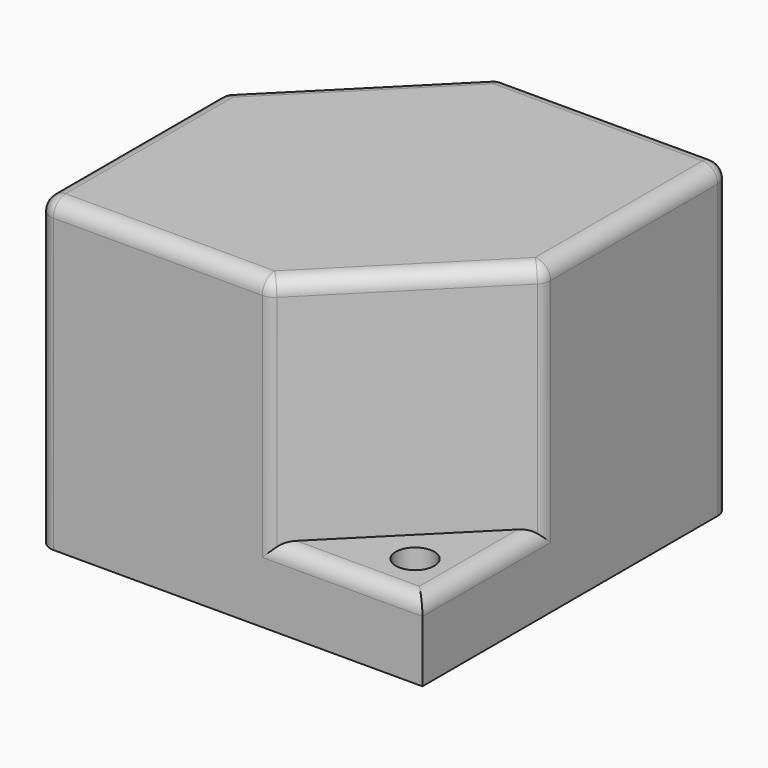
from build123d import *

# Parameters (mm, degrees)
F0_W     = 127
F0_H     = 127
F1_DEPTH = 101.6
F3_DEPTH = 76.2
F4_R     = 6.35
F5_DEPTH = 203.2
F6_T     = -2.54
F7_R     = 5.08


with BuildPart() as f1:
    # F0 (on Top) → F1 (new body)
    with BuildSketch(Plane.XY):
        Rectangle(F0_W, F0_H)
    extrude(amount=F1_DEPTH)

    # F2 (on face) → F3 (cut)
    with BuildSketch(Plane.XY.offset(101.6)):
        Polygon((63.5, -63.5), (63.5, -12.7), (12.7, -63.5), align=None)
        Polygon((-63.5, 12.7), (-12.7, 63.5), (-63.5, 63.5), align=None)
    extrude(amount=-F3_DEPTH, mode=Mode.SUBTRACT)

    # F4 (on face) → F5 (cut)
    with BuildSketch(Plane.XY.offset(25.4)):
        with Locations((-47.3392494023, 48.0060018599)):
            Circle(F4_R)
        with Locations((47.9774476191, -47.1440458012)):
            Circle(F4_R)
    extrude(amount=-F5_DEPTH, mode=Mode.SUBTRACT)

    # F6
    f6_openings = [f1.faces().sort_by_distance(p)[0] for p in [
        (-0.005092, -0.006878, 0),
    ]]
    offset(amount=F6_T, openings=f6_openings, kind=Kind.INTERSECTION)

    # F7
    f7_edges = [f1.edges().sort_by_distance(p)[0] for p in [
        (-38.1, 38.1, 101.6),
        (-63.5, -25.4, 101.6),
        (-63.5, 12.7, 63.5),
        (25.4, 63.5, 101.6),
        (63.5, 25.4, 101.6),
        (38.1, -38.1, 101.6),
        (63.5, -12.7, 63.5),
        (12.7, -63.5, 63.5),
        (-25.4, -63.5, 101.6),
        (63.5, -38.1, 25.4),
        (38.1, -63.5, 25.4),
        (63.5, 63.5, 50.8),
        (-12.7, 63.5, 63.5),
        (-38.1, 63.5, 25.4),
        (-63.5, 38.1, 25.4),
        (-63.5, -63.5, 50.8),
    ]]
    fillet(f7_edges, radius=F7_R)


solid = f1.part
